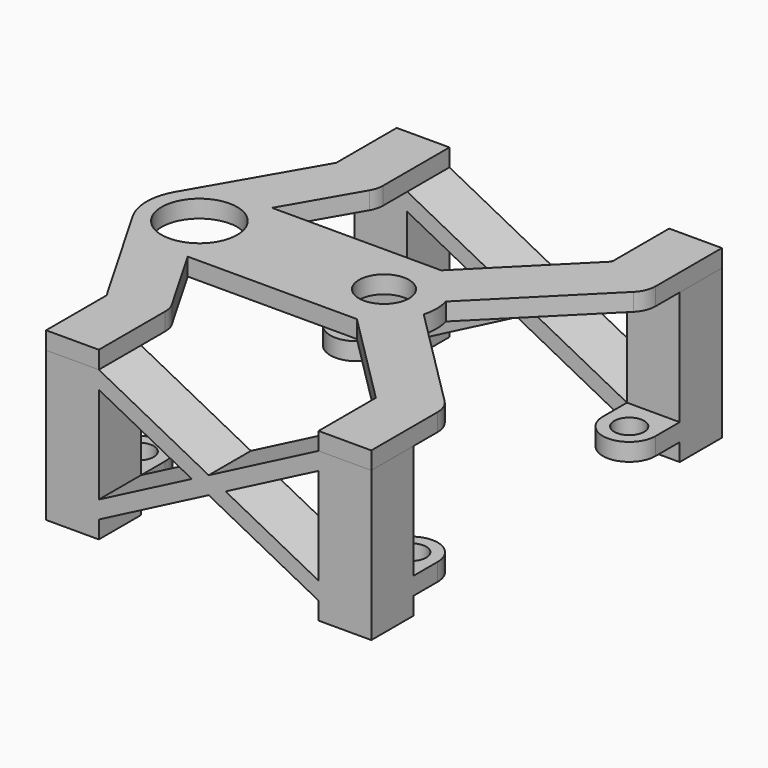
from build123d import *

# Parameters (mm, degrees)
SKETCH105_R                     = 4.3
SKETCH105_R_2                   = 2.85
PAD057_DEPTH                    = 2
SKETCH106_W                     = 6
SKETCH106_H                     = 6
PAD058_DEPTH                    = 17
SKETCH107_R                     = 1.7
PAD059_DEPTH                    = 2
SKETCH107_LINEARPATTERN002_2_R  = 1.7
PAD059_LINEARPATTERN002_2_DEPTH = 2
SKETCH106_LINEARPATTERN002_2_W  = 6
SKETCH106_LINEARPATTERN002_2_H  = 6
PAD058_LINEARPATTERN002_2_DEPTH = 17
PAD060_DEPTH                    = 6


with BuildPart() as part:
    # Sketch105 → Pad057 (new body)
    with BuildSketch(Plane.XY):
        with BuildLine():
            Line((3.464102, 6), (21, 6))
            Line((22.716302, 6), (21, 6))
            Line((22.716302, 6), (33.500258, 16.783955))
            Line((33.500258, 16.783955), (33.500258, 24.930573))
            Line((33.500258, 24.930573), (39.500258, 24.930573))
            Line((39.500258, 24.930573), (39.500258, 15.5))
            ThreePointArc((38.650792, 13.449208), (39.279489, 14.390119), (39.500258, 15.5))
            Line((26.786802, 1.585219), (38.650792, 13.449208))
            ThreePointArc((26.786802, -1.585219), (27, 0), (26.786802, 1.585219))
            Line((26.786802, -1.585219), (38.650792, -13.449208))
            ThreePointArc((39.500258, -15.5), (39.279489, -14.390119), (38.650792, -13.449208))
            Line((39.500258, -24.930573), (39.500258, -15.5))
            Line((33.500258, -24.930573), (39.500258, -24.930573))
            Line((33.500258, -16.783955), (33.500258, -24.930573))
            Line((22.716302, -6), (33.500258, -16.783955))
            Line((21, -6), (22.716302, -6))
            Line((3.464102, -6), (21, -6))
            Line((3.464102, -6), (8.111697, -14.049871))
            ThreePointArc((8.500258, -15.5), (8.401434, -14.749358), (8.111697, -14.049871))
            Line((8.500258, -24.930573), (8.500258, -15.5))
            Line((2.500258, -24.930573), (8.500258, -24.930573))
            Line((2.500258, -16.330573), (2.500258, -24.930573))
            Line((-5.196152, -3), (2.500258, -16.330573))
            ThreePointArc((-5.196152, 3), (-6, 0), (-5.196152, -3))
            Line((-5.196152, 3), (2.500258, 16.330573))
            Line((2.500258, 16.330573), (2.500258, 24.930573))
            Line((2.500258, 24.930573), (8.500258, 24.930573))
            Line((8.500258, 24.930573), (8.500258, 15.5))
            ThreePointArc((8.111697, 14.049871), (8.401434, 14.749358), (8.500258, 15.5))
            Line((3.464102, 6), (8.111697, 14.049871))
        make_face()
        Circle(SKETCH105_R, mode=Mode.SUBTRACT)
        with Locations((21, 0)):
            Circle(SKETCH105_R_2, mode=Mode.SUBTRACT)
    extrude(amount=PAD057_DEPTH)

    # Sketch106 (on Face33 of Pad057) → Pad058 (join)
    with BuildSketch(Plane(origin=(0, 0, 0), x_dir=(1, 0, 0), z_dir=(0, 0, -1))):
        with Locations((5.5, 21.93)):
            Rectangle(SKETCH106_W, SKETCH106_H)
    pad058 = extrude(amount=PAD058_DEPTH)

    # Sketch107 → Pad059 (join)
    with BuildSketch(Plane.XY.offset(-15)):
        with BuildLine():
            Line((2.5, -18.93), (2.5, -15.5))
            ThreePointArc((8.5, -15.5), (5.5, -12.5), (2.5, -15.5))
            Line((8.5, -18.93), (8.5, -15.5))
            Line((2.5, -18.93), (8.5, -18.93))
        make_face()
        with Locations((5.5, -15.5)):
            Circle(SKETCH107_R, mode=Mode.SUBTRACT)
    pad059 = extrude(amount=PAD059_DEPTH)

    # Sketch107 LinearPattern002 2 → Pad059 LinearPattern002 2 (add)
    with BuildSketch(Plane(origin=(31, 0, -15), x_dir=(1, 0, 0), z_dir=(0, 0, 1))):
        with BuildLine():
            Line((2.5, -18.93), (2.5, -15.5))
            ThreePointArc((8.5, -15.5), (5.5, -12.5), (2.5, -15.5))
            Line((8.5, -18.93), (8.5, -15.5))
            Line((2.5, -18.93), (8.5, -18.93))
        make_face()
        with Locations((5.5, -15.5)):
            Circle(SKETCH107_LINEARPATTERN002_2_R, mode=Mode.SUBTRACT)
    pad059_linearpattern002_2 = extrude(amount=PAD059_LINEARPATTERN002_2_DEPTH)

    # Sketch106 LinearPattern002 2 → Pad058 LinearPattern002 2 (add)
    with BuildSketch(Plane(origin=(31, 0, 0), x_dir=(1, 0, 0), z_dir=(0, 0, -1))):
        with Locations((5.5, 21.93)):
            Rectangle(SKETCH106_LINEARPATTERN002_2_W, SKETCH106_LINEARPATTERN002_2_H)
    pad058_linearpattern002_2 = extrude(amount=PAD058_LINEARPATTERN002_2_DEPTH)

    # Mirrored003: Pad059, Pad058, Pad059 LinearPattern002 2, Pad058 LinearPattern002 2 across Sketch107 H_Axis
    add(pad059.mirror(Plane(origin=(0, 0, -15), x_dir=(0, 0, 1), z_dir=(0, 1, 0))))
    add(pad058.mirror(Plane(origin=(0, 0, -15), x_dir=(0, 0, 1), z_dir=(0, 1, 0))))
    add(pad059_linearpattern002_2.mirror(Plane(origin=(0, 0, -15), x_dir=(0, 0, 1), z_dir=(0, 1, 0))))
    add(pad058_linearpattern002_2.mirror(Plane(origin=(0, 0, -15), x_dir=(0, 0, 1), z_dir=(0, 1, 0))))

    # Sketch108 (on Face36 of MultiTransform003) → Pad060 (join)
    with BuildSketch(Plane.XZ.offset(24.93)):
        Polygon((8.5, 0), (21, -6.5), (33.5, 0), (33.5, -2), (22.923077, -7.5), (33.5, -13), (33.5, -15), (21, -8.5), (8.5, -15), (8.5, -13), (19.076923, -7.5), (8.5, -2), align=None)
    pad060 = extrude(amount=-PAD060_DEPTH)

    # Mirrored004: Pad060 across XZ
    add(pad060.mirror(Plane.XZ))


with BuildPart() as part_1:
    # Body028 placement: moved
    add(part.part.moved(Location((46.5, 0, 31))))


solid = part_1.part
